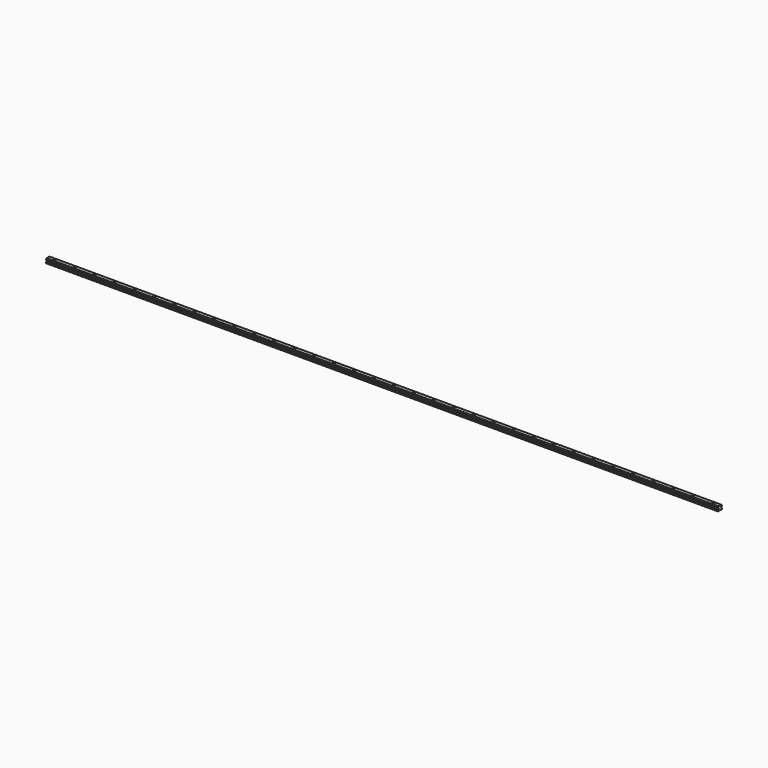
from build123d import *

# Parameters (mm, degrees)
F1_DEPTH       = 2020
F3_D           = 4.5
F3_CBORE_D     = 7.5
F3_CBORE_DEPTH = 6


with BuildPart() as f1:
    # F0 (on Right) → F1 (new body)
    with BuildSketch(Plane.YZ):
        with BuildLine():
            Line((-2.5, 0.5), (0, 0.5))
            Line((0, 0.5), (2.5, 0.5))
            Line((2.5, 0.5), (3, 0))
            Line((3, 0), (7, 0))
            Line((7, 0), (7.5, 0.5))
            Line((7.5, 0.5), (7.5, 3.3))
            Line((7.5, 3.3), (5.37868, 5.42132))
            Line((5.37868, 5.42132), (5.37868, 7.257359))
            Line((5.37868, 7.257359), (5.503925, 7.382605))
            ThreePointArc((5.503925, 7.382605), (6.085786, 8.671573), (7.374754, 9.253434))
            Line((7.374754, 9.253434), (7.5, 9.37868))
            Line((7.5, 9.37868), (7.5, 10.87868))
            Line((7.5, 10.87868), (7.374754, 11.003925))
            ThreePointArc((7.374754, 11.003925), (6.085786, 11.585786), (5.503925, 12.874754))
            Line((5.503925, 12.874754), (5.37868, 13))
            Line((5.37868, 13), (0, 13))
            Line((0, 13), (-5.37868, 13))
            Line((-5.37868, 13), (-5.503925, 12.874754))
            ThreePointArc((-5.503925, 12.874754), (-6.085786, 11.585786), (-7.374754, 11.003925))
            Line((-7.374754, 11.003925), (-7.5, 10.87868))
            Line((-7.5, 10.87868), (-7.5, 9.37868))
            Line((-7.5, 9.37868), (-7.374754, 9.253434))
            ThreePointArc((-7.374754, 9.253434), (-6.085786, 8.671573), (-5.503925, 7.382605))
            Line((-5.503925, 7.382605), (-5.37868, 7.257359))
            Line((-5.37868, 7.257359), (-5.37868, 5.42132))
            Line((-5.37868, 5.42132), (-7.5, 3.3))
            Line((-7.5, 3.3), (-7.5, 0.5))
            Line((-7.5, 0.5), (-7, 0))
            Line((-7, 0), (-3, 0))
            Line((-3, 0), (-2.5, 0.5))
        make_face()
    extrude(amount=F1_DEPTH)

    # F3 (through all)
    with Locations(Plane.XY.offset(13)):
        with Locations((20, 0), (80, 0), (140, 0), (200, 0), (260, 0), (320, 0), (380, 0), (440, 0), (500, 0), (560, 0), (620, 0), (680, 0), (740, 0), (800, 0), (860, 0), (920, 0), (980, 0), (1040, 0), (1100, 0), (1160, 0), (1220, 0), (1280, 0), (1340, 0), (1400, 0), (1460, 0), (1520, 0), (1580, 0), (1640, 0), (1700, 0), (1760, 0), (1820, 0), (1880, 0), (1940, 0), (2000, 0)):
            CounterBoreHole(F3_D / 2, F3_CBORE_D / 2, F3_CBORE_DEPTH)


solid = f1.part
